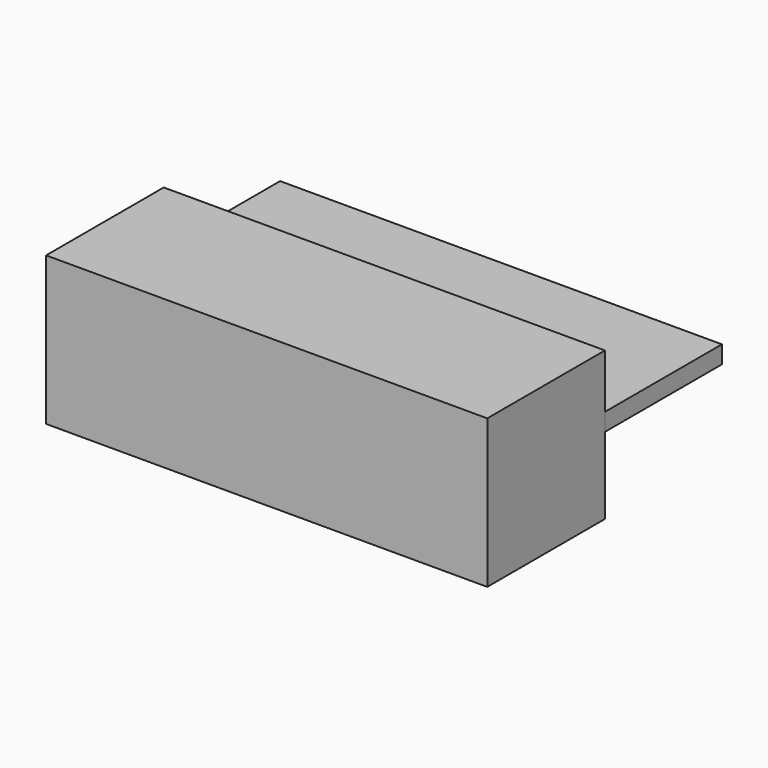
from build123d import *

# Parameters (mm, degrees)
F0_W     = 76.2
F0_H     = 25.630911
F1_DEPTH = 25.4
F2_W     = 76.312058
F2_H     = 25.4
F3_DEPTH = 3.048


with BuildPart() as f1:
    # F0 (on Front) → F1 (new body)
    with BuildSketch(Plane.XZ):
        with Locations((6.891616, -0.336176)):
            Rectangle(F0_W, F0_H)
    extrude(amount=F1_DEPTH)

    # F2 (on Top) → F3 (join)
    with BuildSketch(Plane.XY):
        with Locations((6.723527, 12.7)):
            Rectangle(F2_W, F2_H)
    extrude(amount=F3_DEPTH)


solid = f1.part
